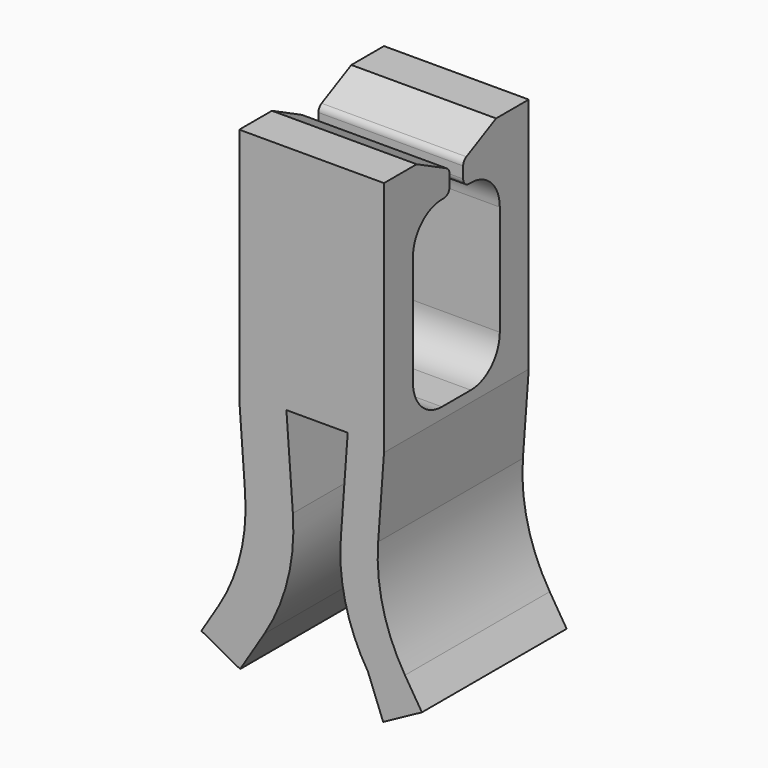
from build123d import *

# Parameters (mm, degrees)
F1_DEPTH = 5
F3_DEPTH = 5.048269


with BuildPart() as f1:
    # F0 (on Front) → F1 (new body)
    with BuildSketch(Plane.XZ):
        with BuildLine():
            Line((0, 13.115867), (-2, 13.115867))
            Line((-2, 13.115867), (-2, 6.558903))
            Line((-2, 6.558903), (-1.838625, 4.335265))
            ThreePointArc((-1.838625, 4.335265), (-1.97121, 2.77512), (-2.579833, 1.33248))
            Line((-2.579833, 1.33248), (-3.047269, 0.580993))
            Line((-3.047269, 0.580993), (-1.976246, 0))
            Line((-1.976246, 0), (-1.304174, 1.080476))
            ThreePointArc((-1.304174, 1.080476), (-0.659034, 2.609675), (-0.518494, 4.263429))
            Line((-0.518494, 4.263429), (-0.696581, 6.717356))
            Line((-0.696581, 6.717356), (0, 6.717356))
            Line((0, 6.717356), (0, 13.115867))
        make_face()
        with BuildLine():
            Line((2, 13.115867), (0, 13.115867))
            Line((0, 13.115867), (0, 6.717356))
            Line((0, 6.717356), (0.99737, 6.717356))
            Line((0.99737, 6.717356), (0.817707, 4.241714))
            ThreePointArc((0.817707, 4.241714), (0.924554, 2.599253), (1.558914, 1.080476))
            Line((1.558914, 1.080476), (1.976246, 0))
            Line((1.976246, 0), (3.047269, 0.580993))
            Line((3.047269, 0.580993), (2.579833, 1.33248))
            ThreePointArc((2.579833, 1.33248), (1.97121, 2.77512), (1.838625, 4.335265))
            Line((1.838625, 4.335265), (2, 6.558903))
            Line((2, 6.558903), (2, 13.115867))
        make_face()
    extrude(amount=F1_DEPTH)

    # F2 (on face) → F3 (cut, through all)
    with BuildSketch(Plane.YZ.offset(2)):
        with BuildLine():
            ThreePointArc((-2.844955, 12.600366), (-2.764493, 12.526635), (-2.734718, 12.421641))
            Line((-2.734718, 12.421641), (-2.734718, 12.105381))
            ThreePointArc((-2.734718, 12.105381), (-2.793296, 11.963959), (-2.934718, 11.905381))
            Line((-2.934718, 11.905381), (-3, 11.905381))
            ThreePointArc((-3, 11.905381), (-3.707107, 11.612487), (-4, 10.905381))
            Line((-4, 10.905381), (-4, 7.860531))
            ThreePointArc((-4, 7.860531), (-3.707107, 7.153424), (-3, 6.860531))
            Line((-3, 6.860531), (-2.5, 6.860531))
            Line((-2.5, 6.860531), (-2, 6.860531))
            ThreePointArc((-2, 6.860531), (-1.292893, 7.153424), (-1, 7.860531))
            Line((-1, 7.860531), (-1, 10.905381))
            ThreePointArc((-1, 10.905381), (-1.292893, 11.612487), (-2, 11.905381))
            Line((-2, 11.905381), (-2.065282, 11.905381))
            ThreePointArc((-2.065282, 11.905381), (-2.206704, 11.963959), (-2.265282, 12.105381))
            Line((-2.265282, 12.105381), (-2.265282, 12.421641))
            ThreePointArc((-2.265282, 12.421641), (-2.235507, 12.526635), (-2.155045, 12.600366))
            Line((-2.155045, 12.600366), (-1.128649, 13.115867))
            Line((-1.128649, 13.115867), (-2.5, 13.115867))
            Line((-2.5, 13.115867), (-3.871351, 13.115867))
            Line((-3.871351, 13.115867), (-2.844955, 12.600366))
        make_face()
    extrude(amount=-F3_DEPTH, mode=Mode.SUBTRACT)


solid = f1.part
